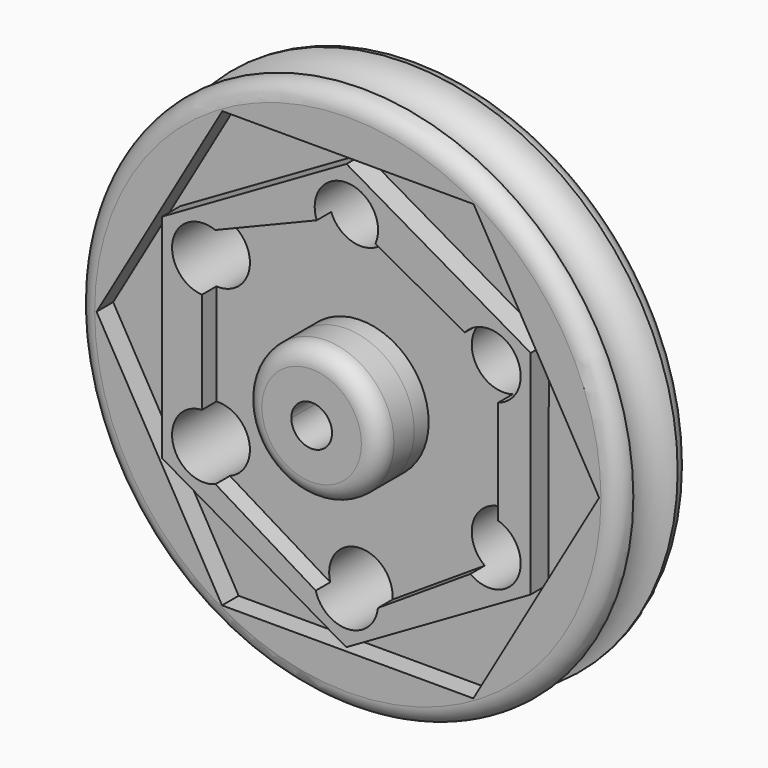
from build123d import *

# Parameters (mm, degrees)
F0_R      = 76.2
F1_DEPTH  = 25.4
F2_R      = 19.05
F3_DEPTH  = 12.7
F4_R      = 5.715
F5_DEPTH  = 38.1
F6_R      = 5.08
F7_R      = 5.08
F8_R      = 7.9116406806
F11_DEPTH = 0.508
F12_R     = 8.905003664
F13_DEPTH = 76.2
F14_R     = 19.05
F15_DEPTH = 5.08
F17_D     = 11.43
F19_DEPTH = 6.35


with BuildPart() as f1:
    # F0 (on Front) → F1 (new body)
    with BuildSketch(Plane.XZ):
        Circle(F0_R)
    extrude(amount=F1_DEPTH)

    # F2 (on face) → F3 (join)
    with BuildSketch(Plane.XZ.offset(25.4)):
        Circle(F2_R)
    extrude(amount=F3_DEPTH)

    # F4 (on face) → F5 (cut)
    with BuildSketch(Plane.XZ.offset(38.1)):
        Circle(F4_R)
    extrude(amount=-F5_DEPTH, mode=Mode.SUBTRACT)

    # F6
    f6_edges = [f1.edges().sort_by_distance(p)[0] for p in [
        (-19.05, -38.1, 0),
    ]]
    fillet(f6_edges, radius=F6_R)

    # F7
    f7_edges = [f1.edges().sort_by_distance(p)[0] for p in [
        (-76.2, -25.4, 0),
        (76.2, -12.7, 0),
        (-76.2, 0, 0),
    ]]
    fillet(f7_edges, radius=F7_R)

    # F8 (on Right) → F9 (revolve, cut)
    with BuildSketch(Plane.YZ):
        with Locations((-12.5926407054, 77.582313797)):
            Circle(F8_R)
    revolve(axis=Axis((0, -25.4, 0), (0, -1, 0)), mode=Mode.SUBTRACT)

    # F10 (on face) → F11 (join)
    with BuildSketch(Plane.XZ.offset(25.4)):
        Polygon((70.5919441182, -0.046986044), (35.3366631668, 61.1109238869), (-35.2552809513, 61.1579099309), (-70.5919441182, 0.046986044), (-35.3366631668, -61.1109238869), (35.2552809513, -61.1579099309), align=None)
    extrude(amount=F11_DEPTH)

    # F12 (on face) → F13 (cut)
    with BuildSketch(Plane.XZ.offset(25.908)):
        with Locations((0, 46.2614186108)):
            Circle(F12_R)
        with Locations((-40.0635637321, 23.1307093054)):
            Circle(F12_R)
        with Locations((-40.0635637321, -23.1307093054)):
            Circle(F12_R)
        with Locations((0, -46.2614186108)):
            Circle(F12_R)
        with Locations((40.0635637321, -23.1307093054)):
            Circle(F12_R)
        with Locations((40.0635637321, 23.1307093054)):
            Circle(F12_R)
    extrude(amount=-F13_DEPTH, mode=Mode.SUBTRACT)

    # F14 (on face) → F15 (cut)
    with BuildSketch(Plane.XZ.offset(25.908)):
        with BuildLine():
            ThreePointArc((-31.158560068, 23.1307093054), (-33.9448570911, 16.660738726), (-40.5601326844, 14.2395614868))
            Line((-40.5601326844, 14.2395614868), (-40.5601326844, -14.2395614868))
            ThreePointArc((-40.5601326844, -14.2395614868), (-33.9448570911, -16.660738726), (-31.158560068, -23.1307093054))
            ThreePointArc((-31.158560068, -23.1307093054), (-32.6977836303, -28.135144713), (-36.7833469167, -31.4095539048))
            Line((-36.7833469167, -31.4095539048), (-8.6048668954, -48.5538749288))
            ThreePointArc((-8.6048668954, -48.5538749288), (-1.1560101697, -37.4317679527), (8.905003664, -46.2614186108))
            ThreePointArc((8.905003664, -46.2614186108), (8.8933094044, -46.7176401516), (8.8582573398, -47.1726634507))
            Line((8.8582573398, -47.1726634507), (34.819331906, -30.3277311069))
            ThreePointArc((34.819331906, -30.3277311069), (32.0949579459, -19.1557360878), (42.6586816252, -14.6122321306))
            Line((42.6586816252, -14.6122321306), (42.6586816252, 14.6122321306))
            ThreePointArc((42.6586816252, 14.6122321306), (32.6196198384, 18.2432979697), (33.2788767042, 28.898474227))
            Line((33.2788767042, 28.898474227), (8.1556572822, 42.6858984317))
            ThreePointArc((8.1556572822, 42.6858984317), (-0.2309431505, 37.3594101005), (-8.3300800026, 43.1135848467))
            Line((-8.3300800026, 43.1135848467), (-36.8523695931, 31.4365700349))
            ThreePointArc((-36.8523695931, 31.4365700349), (-32.7186748347, 28.165756211), (-31.158560068, 23.1307093054))
        make_face()
        Circle(F14_R, mode=Mode.SUBTRACT)
    extrude(amount=-F15_DEPTH, mode=Mode.SUBTRACT)

    # F17 (through all)
    with Locations(Plane.XZ.offset(25.908)):
        with Locations((0, 0)):
            Hole(F17_D / 2)

    # F18 (on face) → F19 (cut)
    with BuildSketch(Plane.XZ.offset(25.908)):
        Polygon((-35.3366631668, -61.1109238869), (35.2552809513, -61.1579099309), (70.5919441182, -0.046986044), (35.3366631668, 61.1109238869), (-35.2552809513, 61.1579099309), (-70.5919441182, 0.046986044), align=None)
        Polygon((-51.7435314195, 29.9200801516), (0.0397837848, 59.7712527666), (51.7833152043, 29.851172615), (51.7435314195, -29.9200801516), (-0.0397837848, -59.7712527666), (-51.7833152043, -29.851172615), align=None, mode=Mode.SUBTRACT)
    extrude(amount=-F19_DEPTH, mode=Mode.SUBTRACT)


solid = f1.part
